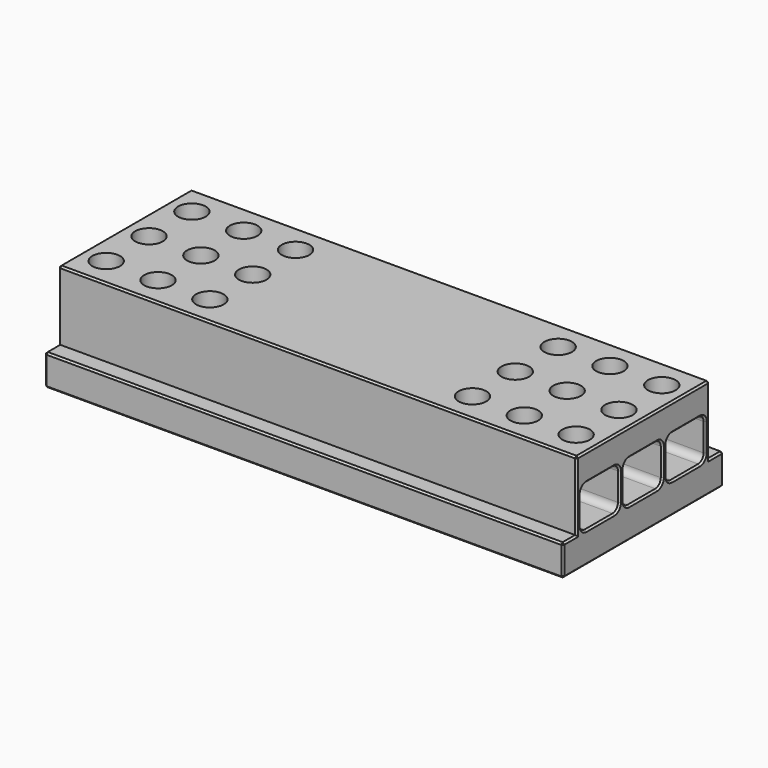
from build123d import *

# Parameters (mm, degrees)
F0_W     = 150
F0_H     = 58
F1_DEPTH = 29
F3_W     = 5
F3_H     = 20
F4_DEPTH = 150.001
F2_R     = 4
F5_DEPTH = 20
F8_DEPTH = 50
F9_DEPTH = 50
F10_SIZE = 0.5


with BuildPart() as f1:
    # F0 (on Top) → F1 (new body)
    with BuildSketch(Plane.XY):
        Rectangle(F0_W, F0_H)
    extrude(amount=-F1_DEPTH)

    # F3 (on face) → F4 (cut, through all)
    with BuildSketch(Plane.YZ.offset(75)):
        with Locations((-26.5, -10)):
            Rectangle(F3_W, F3_H)
        with Locations((26.5, -10)):
            Rectangle(F3_W, F3_H)
    extrude(amount=-F4_DEPTH, mode=Mode.SUBTRACT)

    # F2 (on Top) → F5 (cut)
    with BuildSketch(Plane.XY):
        with Locations((68, 15.5)):
            Circle(F2_R)
        with Locations((38, -15.5)):
            Circle(F2_R)
        with Locations((38, 15.5)):
            Circle(F2_R)
        with Locations((38, 0)):
            Circle(F2_R)
        with Locations((68, 0)):
            Circle(F2_R)
        with Locations((53, -15.5)):
            Circle(F2_R)
        with Locations((68, -15.5)):
            Circle(F2_R)
        with Locations((53, 0)):
            Circle(F2_R)
        with Locations((53, 15.5)):
            Circle(F2_R)
        with Locations((-68, 15.5)):
            Circle(F2_R)
        with Locations((-53, 0)):
            Circle(F2_R)
        with Locations((-38, 0)):
            Circle(F2_R)
        with Locations((-68, -15.5)):
            Circle(F2_R)
        with Locations((-38, -15.5)):
            Circle(F2_R)
        with Locations((-68, 0)):
            Circle(F2_R)
        with Locations((-38, 15.5)):
            Circle(F2_R)
        with Locations((-53, 15.5)):
            Circle(F2_R)
        with Locations((-53, -15.5)):
            Circle(F2_R)
    extrude(amount=-F5_DEPTH, mode=Mode.SUBTRACT)

    # F6 (on face) → F8 (cut)
    with BuildSketch(Plane.YZ.offset(75)):
        with BuildLine():
            Line((-10.5, -8), (-20.5, -8))
            ThreePointArc((-20.5, -8), (-21.9142135624, -8.5857864376), (-22.5, -10))
            Line((-22.5, -10), (-22.5, -18))
            ThreePointArc((-22.5, -18), (-21.9142135624, -19.4142135624), (-20.5, -20))
            Line((-20.5, -20), (-10.5, -20))
            ThreePointArc((-10.5, -20), (-9.0857864376, -19.4142135624), (-8.5, -18))
            Line((-8.5, -18), (-8.5, -10))
            ThreePointArc((-8.5, -10), (-9.0857864376, -8.5857864376), (-10.5, -8))
        make_face()
        with BuildLine():
            Line((7, -18), (7, -10))
            ThreePointArc((7, -10), (6.4142135624, -8.5857864376), (5, -8))
            Line((5, -8), (-5, -8))
            ThreePointArc((-5, -8), (-6.4142135624, -8.5857864376), (-7, -10))
            Line((-7, -10), (-7, -18))
            ThreePointArc((-7, -18), (-6.4142135624, -19.4142135624), (-5, -20))
            Line((-5, -20), (5, -20))
            ThreePointArc((5, -20), (6.4142135624, -19.4142135624), (7, -18))
        make_face()
        with BuildLine():
            Line((22.5, -18), (22.5, -10))
            ThreePointArc((22.5, -10), (21.9142135624, -8.5857864376), (20.5, -8))
            Line((20.5, -8), (10.5, -8))
            ThreePointArc((10.5, -8), (9.0857864376, -8.5857864376), (8.5, -10))
            Line((8.5, -10), (8.5, -18))
            ThreePointArc((8.5, -18), (9.0857864376, -19.4142135624), (10.5, -20))
            Line((10.5, -20), (20.5, -20))
            ThreePointArc((20.5, -20), (21.9142135624, -19.4142135624), (22.5, -18))
        make_face()
    extrude(amount=-F8_DEPTH, mode=Mode.SUBTRACT)

    # F7 (on face) → F9 (cut)
    with BuildSketch(Plane(origin=(-75, 0, 0), x_dir=(0, -1, 0), z_dir=(-1, 0, 0))):
        with BuildLine():
            Line((-10.4802631579, -8), (-20.4802631579, -8))
            ThreePointArc((-20.4802631579, -8), (-21.8944767203, -8.5857864376), (-22.4802631579, -10))
            Line((-22.4802631579, -10), (-22.4802631579, -18))
            ThreePointArc((-22.4802631579, -18), (-21.8944767203, -19.4142135624), (-20.4802631579, -20))
            Line((-20.4802631579, -20), (-10.4802631579, -20))
            ThreePointArc((-10.4802631579, -20), (-9.0660495955, -19.4142135624), (-8.4802631579, -18))
            Line((-8.4802631579, -18), (-8.4802631579, -10))
            ThreePointArc((-8.4802631579, -10), (-9.0660495955, -8.5857864376), (-10.4802631579, -8))
        make_face()
        with BuildLine():
            Line((7.0197368421, -18), (7.0197368421, -10))
            ThreePointArc((7.0197368421, -10), (6.4339504045, -8.5857864376), (5.0197368421, -8))
            Line((5.0197368421, -8), (-4.9802631579, -8))
            ThreePointArc((-4.9802631579, -8), (-6.3944767203, -8.5857864376), (-6.9802631579, -10))
            Line((-6.9802631579, -10), (-6.9802631579, -18))
            ThreePointArc((-6.9802631579, -18), (-6.3944767203, -19.4142135624), (-4.9802631579, -20))
            Line((-4.9802631579, -20), (5.0197368421, -20))
            ThreePointArc((5.0197368421, -20), (6.4339504045, -19.4142135624), (7.0197368421, -18))
        make_face()
        with BuildLine():
            Line((22.5197368421, -18), (22.5197368421, -10))
            ThreePointArc((22.5197368421, -10), (21.9339504045, -8.5857864376), (20.5197368421, -8))
            Line((20.5197368421, -8), (10.5197368421, -8))
            ThreePointArc((10.5197368421, -8), (9.1055232797, -8.5857864376), (8.5197368421, -10))
            Line((8.5197368421, -10), (8.5197368421, -18))
            ThreePointArc((8.5197368421, -18), (9.1055232797, -19.4142135624), (10.5197368421, -20))
            Line((10.5197368421, -20), (20.5197368421, -20))
            ThreePointArc((20.5197368421, -20), (21.9339504045, -19.4142135624), (22.5197368421, -18))
        make_face()
    extrude(amount=-F9_DEPTH, mode=Mode.SUBTRACT)

    # F10
    f10_edges = [f1.edges().sort_by_distance(p)[0] for p in [
        (75, -15.5, -8),
        (75, 0, -8),
        (75, 15.5, -8),
        (-75, 15.480263, -8),
        (-75, -0.019737, -8),
        (-75, -15.519737, -8),
        (75, -24, -10),
        (75, 0, 0),
        (75, 24, -10),
        (0, -24, 0),
        (0, 24, 0),
        (-75, 0, 0),
        (-75, 24, -10),
        (-75, -24, -10),
        (75, -26.5, -20),
        (0, -29, -20),
        (-75, -26.5, -20),
        (75, 26.5, -20),
        (0, 29, -20),
        (-75, 26.5, -20),
        (75, 29, -24.5),
        (75, -29, -24.5),
        (-75, 29, -24.5),
        (-75, -29, -24.5),
        (0, -29, -29),
        (-75, 0, -29),
        (75, 0, -29),
        (0, 29, -29),
    ]]
    chamfer(f10_edges, length=F10_SIZE)


solid = f1.part
